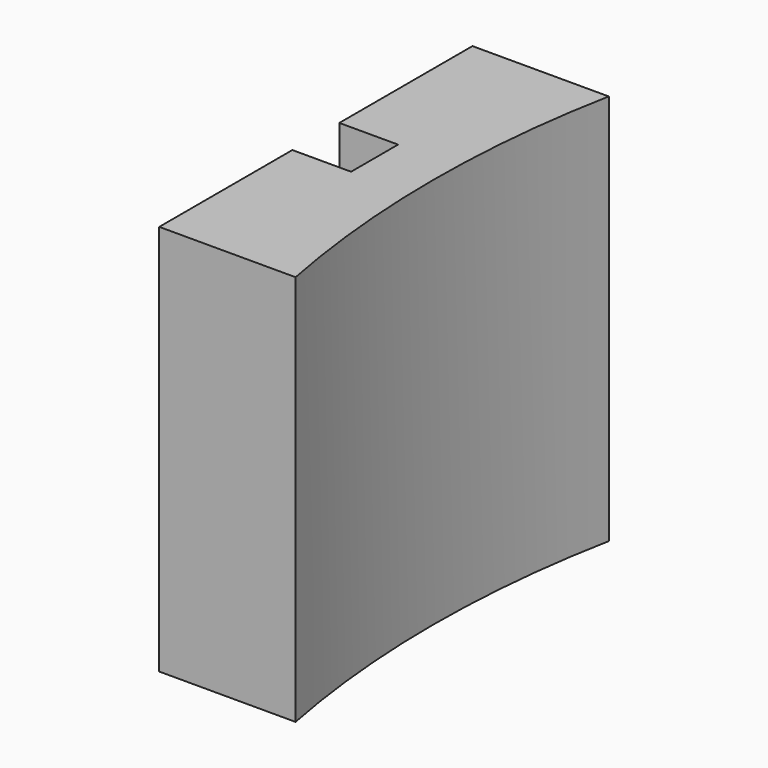
from build123d import *

# Parameters (mm, degrees)
F1_DEPTH = 20
F2_W     = 8.5
F2_H     = 20
F3_DEPTH = 3


with BuildPart() as f1:
    # F0 (on Top) → F1 (new body)
    with BuildSketch(Plane.XY):
        with BuildLine():
            ThreePointArc((-51.423708, -10), (-52.387, 0), (-51.423708, 10))
            Line((-51.423708, 10), (-55.387, 10))
            Line((-55.387, 10), (-55.387, 0))
            Line((-55.387, 0), (-55.387, -10))
            Line((-55.387, -10), (-51.423708, -10))
        make_face()
    extrude(amount=F1_DEPTH)

    # F2 (on face) → F3 (join)
    with BuildSketch(Plane(origin=(-55.387, 0, 0), x_dir=(0, -1, 0), z_dir=(-1, 0, 0))):
        with Locations((5.75, 10)):
            Rectangle(F2_W, F2_H)
        with Locations((-5.75, 10)):
            Rectangle(F2_W, F2_H)
    extrude(amount=F3_DEPTH)


solid = f1.part
